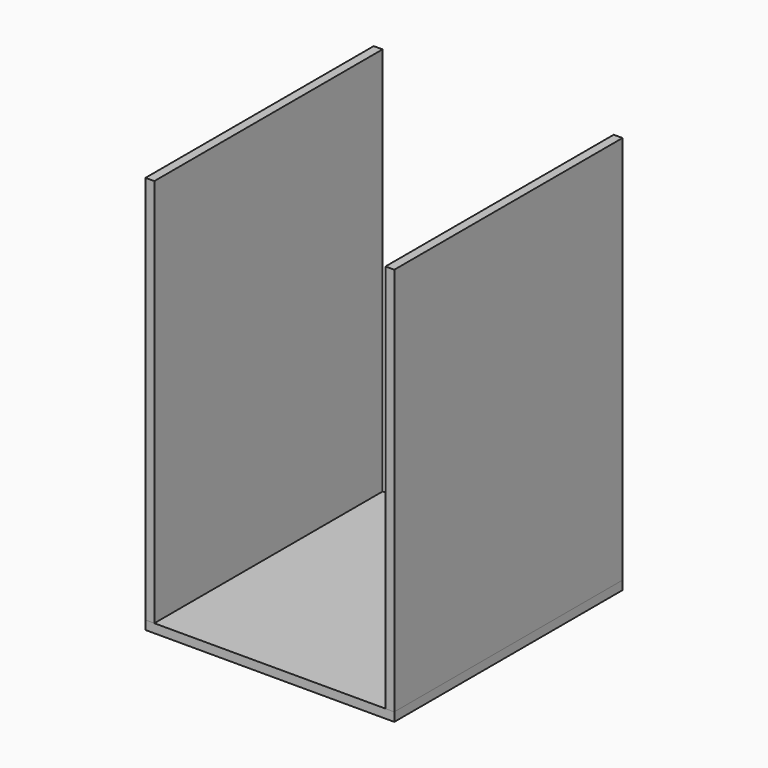
from build123d import *

# Parameters (mm, degrees)
F0_W     = 516
F0_H     = 704
F1_DEPTH = 16
F2_W     = 450
F2_H     = 516
F3_DEPTH = 16
F4_W     = 516
F4_H     = 704
F5_DEPTH = 16


with BuildPart() as f1:
    # F0 (on Right) → F1 (new body)
    with BuildSketch(Plane.YZ):
        with Locations((258, 352)):
            Rectangle(F0_W, F0_H)
    extrude(amount=F1_DEPTH)


with BuildPart() as f3:
    # F2 (on Top) → F3 (new body)
    with BuildSketch(Plane.XY):
        with Locations((225, 258)):
            Rectangle(F2_W, F2_H)
    extrude(amount=-F3_DEPTH)


with BuildPart() as f5:
    # F4 (on face) → F5 (new body)
    with BuildSketch(Plane.YZ.offset(450)):
        with Locations((258, 352)):
            Rectangle(F4_W, F4_H)
    extrude(amount=-F5_DEPTH)


solid = Compound([f1.part, f3.part, f5.part])
